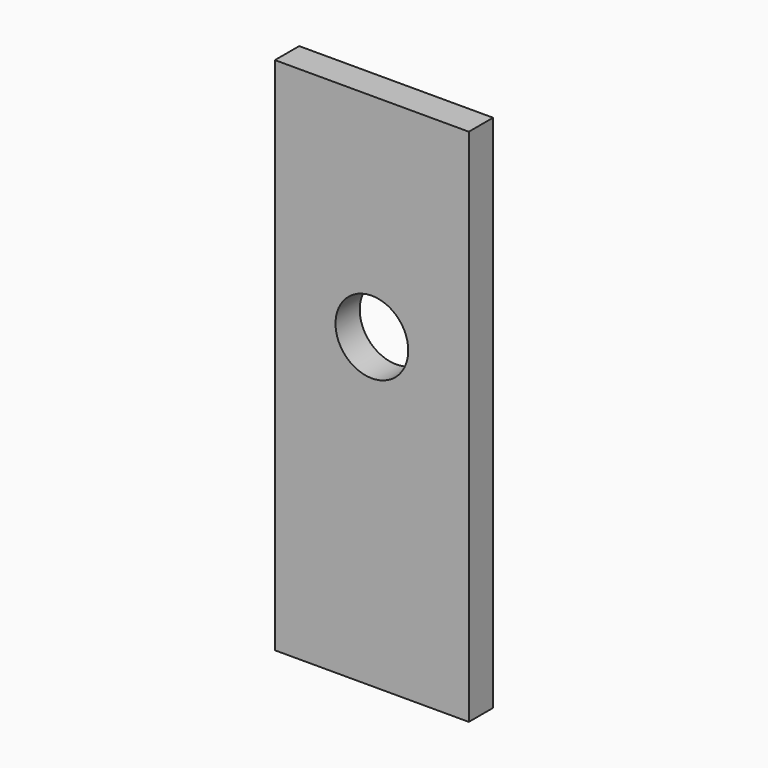
from build123d import *

# Parameters (mm, degrees)
F0_W     = 959
F0_H     = 2570
F1_DEPTH = 150
F2_R     = 180
F3_DEPTH = 185.42
F5_R     = 6
F6_DEPTH = 70
F7_R     = 3
F8_DEPTH = 35


with BuildPart() as f1:
    # F0 (on Front) → F1 (new body)
    with BuildSketch(Plane.XZ):
        Rectangle(F0_W, F0_H)
    extrude(amount=F1_DEPTH)

    # F2 (on face) → F3 (cut)
    with BuildSketch(Plane.XZ.offset(150)):
        with Locations((0, 235)):
            Circle(F2_R)
    extrude(amount=-F3_DEPTH, mode=Mode.SUBTRACT)


with BuildPart() as f6:
    # F5 (on offset) → F6 (new body)
    with BuildSketch(Plane.XY.offset(1215)):
        with Locations((-479.5, 6)):
            Circle(F5_R)
    extrude(amount=-F6_DEPTH)

    # F7 (on face) → F8 (cut)
    with BuildSketch(Plane(origin=(0, 0, 1145), x_dir=(1, 0, 0), z_dir=(0, 0, -1))):
        with Locations((-479.5, -6)):
            Circle(F7_R)
    extrude(amount=-F8_DEPTH, mode=Mode.SUBTRACT)


solid = Compound([f1.part, f6.part])
